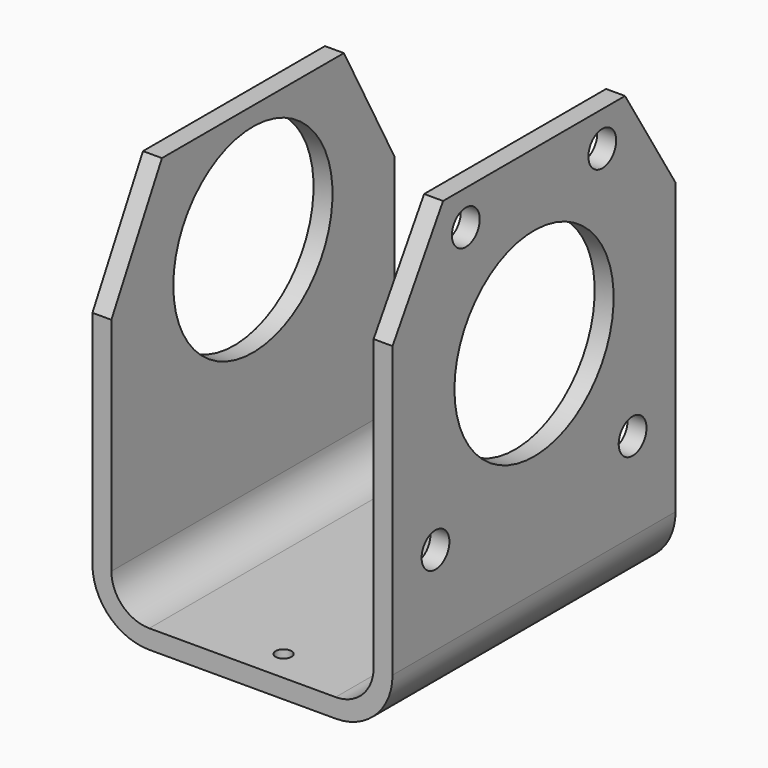
from build123d import *

# Parameters (mm, degrees)
F0_W      = 12
F0_H      = 238
F0_H_2    = 12
F0_W_2    = 166
F0_H_3    = 272
F1_DEPTH  = 224
F2_R      = 24
F3_R      = 36
F5_DEPTH  = 12
F7_DEPTH  = 12
F8_R      = 63
F9_DEPTH  = 190
F10_R     = 11
F11_DEPTH = 25
F12_R     = 5
F13_DEPTH = 25


with BuildPart() as f1:
    # F0 (on Front) → F1 (new body)
    with BuildSketch(Plane.XZ):
        with Locations((-29.668833, 69.198049)):
            Rectangle(F0_W, F0_H)
        with Locations((-29.668833, -55.801951)):
            Rectangle(F0_W, F0_H_2)
        with Locations((59.331167, -55.801951)):
            Rectangle(F0_W_2, F0_H_2)
        with Locations((148.331167, 86.198049)):
            Rectangle(F0_W, F0_H_3)
        with Locations((148.331167, -55.801951)):
            Rectangle(F0_W, F0_H_2)
    extrude(amount=F1_DEPTH)

    # F2
    f2_edges = [f1.edges().sort_by_distance(p)[0] for p in [
        (-23.668833, -112, -49.801951),
        (142.331167, -112, -49.801951),
    ]]
    fillet(f2_edges, radius=F2_R)

    # F3
    f3_edges = [f1.edges().sort_by_distance(p)[0] for p in [
        (154.331167, -112, -61.801951),
        (-35.668833, -112, -61.801951),
    ]]
    fillet(f3_edges, radius=F3_R)

    # F4 (on face) → F5 (cut)
    with BuildSketch(Plane(origin=(-35.668833, 0, 0), x_dir=(0, -1, 0), z_dir=(-1, 0, 0))):
        Polygon((0, 114.333307), (40, 188.198049), (0, 188.198049), align=None)
        Polygon((224, 188.198049), (184, 188.198049), (224, 114.333307), align=None)
    extrude(amount=-F5_DEPTH, mode=Mode.SUBTRACT)

    # F6 (on face) → F7 (cut)
    with BuildSketch(Plane.YZ.offset(154.331167)):
        Polygon((-224, 222.198049), (-224, 157.576071), (-184, 222.198049), align=None)
        Polygon((0, 222.198049), (-40, 222.198049), (0, 157.576071), align=None)
    extrude(amount=-F7_DEPTH, mode=Mode.SUBTRACT)

    # F8 (on face) → F9 (cut)
    with BuildSketch(Plane(origin=(-35.668833, 0, 0), x_dir=(0, -1, 0), z_dir=(-1, 0, 0))):
        with Locations((112, 113.482498)):
            Circle(F8_R)
    extrude(amount=-F9_DEPTH, mode=Mode.SUBTRACT)

    # F10 (on face) → F11 (cut)
    with BuildSketch(Plane.YZ.offset(154.331167)):
        with Locations((-166, 200.198049)):
            Circle(F10_R)
        with Locations((-58, 200.198049)):
            Circle(F10_R)
        with Locations((-34, 30.198049)):
            Circle(F10_R)
        with Locations((-190, 30.198049)):
            Circle(F10_R)
    extrude(amount=-F11_DEPTH, mode=Mode.SUBTRACT)

    # F12 (on face) → F13 (cut)
    with BuildSketch(Plane.XY.offset(-49.801951)):
        with Locations((69.331167, -204)):
            Circle(F12_R)
        with Locations((69.331167, -20)):
            Circle(F12_R)
    extrude(amount=-F13_DEPTH, mode=Mode.SUBTRACT)


solid = f1.part
